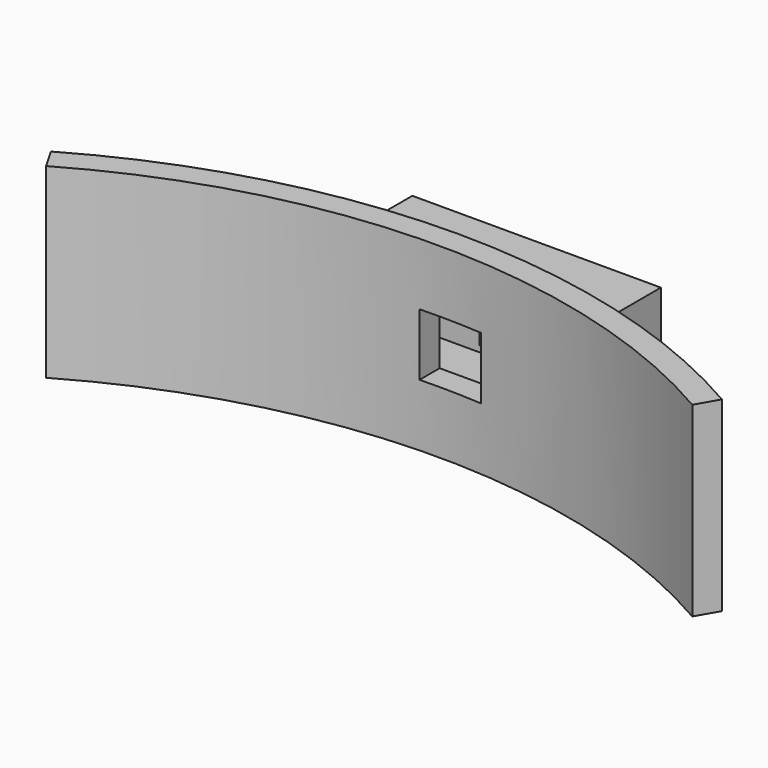
from build123d import *

# Parameters (mm, degrees)
BOX002_W                    = 20
BOX002_H                    = 4
BOX002_DEPTH                = 6
BOX_W                       = 5
BOX_H                       = 20
BOX_DEPTH                   = 5
BOX001_W                    = 20
BOX001_H                    = 7
BOX001_DEPTH                = 10
CYLINDER001_W               = 52
CYLINDER001_H               = 15
CYLINDER001_ANGLE           = 60
CYLINDER001_PLACEMENT_ANGLE = 60
CYLINDER_W                  = 54
CYLINDER_H                  = 15
CYLINDER_ANGLE              = 60
CYLINDER_PLACEMENT_ANGLE    = 60


with BuildPart() as slot:
    # Box002 → Box002 (new body)
    with BuildSketch(Plane(origin=(2, 45, 4.5), x_dir=(1, 0, 0), z_dir=(0, 0, 1))):
        with Locations((10, 2)):
            Rectangle(BOX002_W, BOX002_H)
    extrude(amount=BOX002_DEPTH)


with BuildPart() as pin_opening:
    # Box → Box (new body)
    with BuildSketch(Plane(origin=(7, 42, 5), x_dir=(1, 0, 0), z_dir=(0, 0, 1))):
        with Locations((2.5, 10)):
            Rectangle(BOX_W, BOX_H)
    extrude(amount=BOX_DEPTH)


with BuildPart() as latch:
    # Box001 → Box001 (new body)
    with BuildSketch(Plane(origin=(0, 44, 2.5), x_dir=(1, 0, 0), z_dir=(0, 0, 1))):
        with Locations((10, 3.5)):
            Rectangle(BOX001_W, BOX001_H)
    extrude(amount=BOX001_DEPTH)


with BuildPart() as bottle_wall001:
    # Cylinder001 → Cylinder001 (revolve)
    with BuildSketch(Plane.XZ):
        with Locations((26, 7.5)):
            Rectangle(CYLINDER001_W, CYLINDER001_H)
    revolve(axis=Axis((0, 0, 0), (0, 0, 1)), revolution_arc=CYLINDER001_ANGLE)


with BuildPart() as bottle_wall001_1:
    # Cylinder001 placement: moved
    add(bottle_wall001.part.moved(Location((8.5, -7, 0))).rotate(Axis((8.5, -7, 0), (0, 0, 1)), CYLINDER001_PLACEMENT_ANGLE))


with BuildPart() as cut002:
    # Cylinder → Cylinder (revolve)
    with BuildSketch(Plane.XZ):
        with Locations((27, 7.5)):
            Rectangle(CYLINDER_W, CYLINDER_H)
    revolve(axis=Axis((0, 0, 0), (0, 0, 1)), revolution_arc=CYLINDER_ANGLE)


with BuildPart() as cut002_1:
    # Cylinder placement: moved
    add(cut002.part.moved(Location((8.5, -7, 0))).rotate(Axis((8.5, -7, 0), (0, 0, 1)), CYLINDER_PLACEMENT_ANGLE))

    # Cut: cut bottle_wall001
    add(bottle_wall001_1.part, mode=Mode.SUBTRACT)


with BuildPart() as cut002_2:
    # Cut placement: moved
    add(cut002_1.part.moved(Location((0, -2, 0))))

    # Fusion: union latch
    add(latch.part)

    # Fusion001: union latch
    add(latch.part)

    # Cut001: cut pin_opening
    add(pin_opening.part, mode=Mode.SUBTRACT)

    # Cut002: cut slot
    add(slot.part, mode=Mode.SUBTRACT)


solid = cut002_2.part
